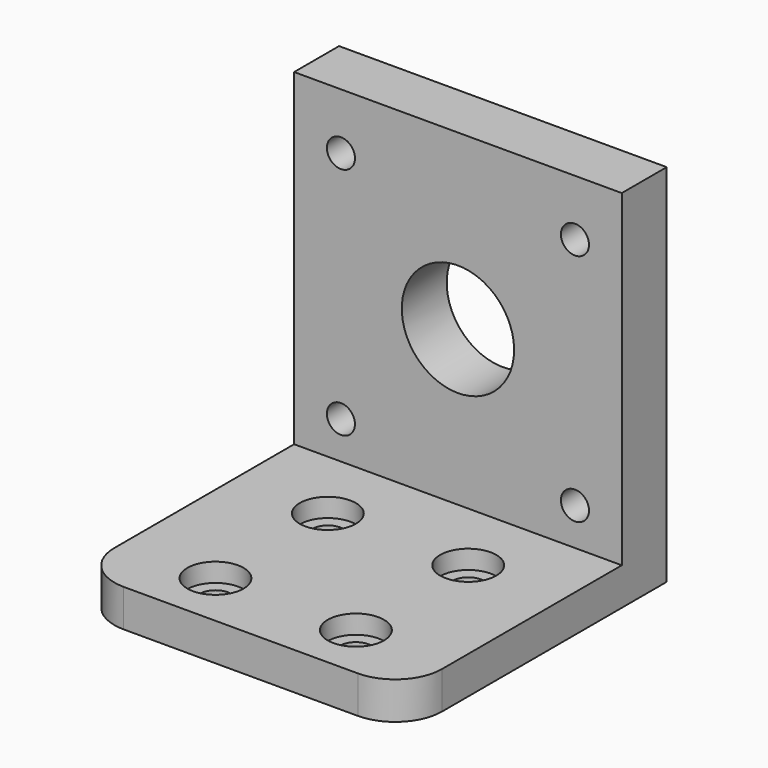
from build123d import *

# Parameters (mm, degrees)
F0_W      = 35
F0_H      = 35
F1_DEPTH  = 4
F2_R      = 3
F2_R_2    = 1.675
F4_DEPTH  = 2
F5_R      = 5
F6_DEPTH  = 12.5
F3_W      = 35
F3_H      = 6
F7_DEPTH  = 35
F8_R      = 6
F8_R_2    = 1.5
F9_DEPTH  = 6.001
F11_D     = 5
F11_DEPTH = 2
F11_TIP   = 1.5021515476


with BuildPart() as f1:
    # F0 (on Top) → F1 (new body)
    with BuildSketch(Plane.XY):
        with Locations((17.5, 17.5)):
            Rectangle(F0_W, F0_H)
    extrude(amount=F1_DEPTH)

    # F2 (on face) → F4 (cut)
    with BuildSketch(Plane.XY.offset(4)):
        with BuildLine():
            ThreePointArc((13, 21), (10, 24), (7, 21))
            ThreePointArc((7, 21), (10, 18), (13, 21))
        make_face()
        with BuildLine():
            ThreePointArc((8.325, 21), (10, 22.675), (11.675, 21))
            ThreePointArc((11.675, 21), (10, 19.325), (8.325, 21))
        make_face(mode=Mode.SUBTRACT)
        with Locations((25, 21)):
            Circle(F2_R)
        with Locations((25, 21)):
            Circle(F2_R_2, mode=Mode.SUBTRACT)
        with Locations((25, 6)):
            Circle(F2_R)
        with Locations((25, 6)):
            Circle(F2_R_2, mode=Mode.SUBTRACT)
        with BuildLine():
            ThreePointArc((13, 6), (7.8786796564, 8.1213203436), (10, 3))
            ThreePointArc((10, 3), (12.1213203436, 3.8786796564), (13, 6))
        make_face()
        with BuildLine():
            ThreePointArc((11.675, 6), (11.1844038585, 4.8155961415), (10, 4.325))
            ThreePointArc((10, 4.325), (8.8155961415, 7.1844038585), (11.675, 6))
        make_face(mode=Mode.SUBTRACT)
    extrude(amount=-F4_DEPTH, mode=Mode.SUBTRACT)

    # F5
    f5_edges = [f1.edges().sort_by_distance(p)[0] for p in [
        (0, 0, 2),
        (35, 0, 2),
    ]]
    fillet(f5_edges, radius=F5_R)

    # F2 (on face) → F6 (cut, symmetric)
    with BuildSketch(Plane.XY.offset(4)):
        with BuildLine():
            ThreePointArc((8.325, 21), (10, 19.325), (11.675, 21))
            ThreePointArc((11.675, 21), (10, 22.675), (8.325, 21))
        make_face()
        with Locations((25, 21)):
            Circle(F2_R_2)
        with Locations((25, 6)):
            Circle(F2_R_2)
        with BuildLine():
            ThreePointArc((11.675, 6), (8.8155961415, 7.1844038585), (10, 4.325))
            ThreePointArc((10, 4.325), (11.1844038585, 4.8155961415), (11.675, 6))
        make_face()
    extrude(amount=F6_DEPTH, both=True, mode=Mode.SUBTRACT)

    # F3 (on face) → F7 (join)
    with BuildSketch(Plane.XY.offset(4)):
        with Locations((17.5, 32)):
            Rectangle(F3_W, F3_H)
    extrude(amount=F7_DEPTH)

    # F8 (on face) → F9 (cut, through all)
    with BuildSketch(Plane.XZ.offset(-29)):
        with Locations((17.5, 20.5)):
            Circle(F8_R)
        with Locations((30, 33)):
            Circle(F8_R_2)
        with Locations((5, 33)):
            Circle(F8_R_2)
        with Locations((5, 8)):
            Circle(F8_R_2)
        with Locations((30, 8)):
            Circle(F8_R_2)
    extrude(amount=-F9_DEPTH, mode=Mode.SUBTRACT)

    # F11
    with Locations(Plane(origin=(0, 35, 0), x_dir=(-1, 0, 0), z_dir=(0, 1, 0))):
        with Locations((-30, 33), (-30, 8), (-5, 8), (-5, 33)):
            Hole(F11_D / 2, depth=F11_DEPTH)
            with Locations((0, 0, -(F11_DEPTH + F11_TIP / 2))):  # 118° drill point
                Cone(0, F11_D / 2, F11_TIP, mode=Mode.SUBTRACT)


solid = f1.part
